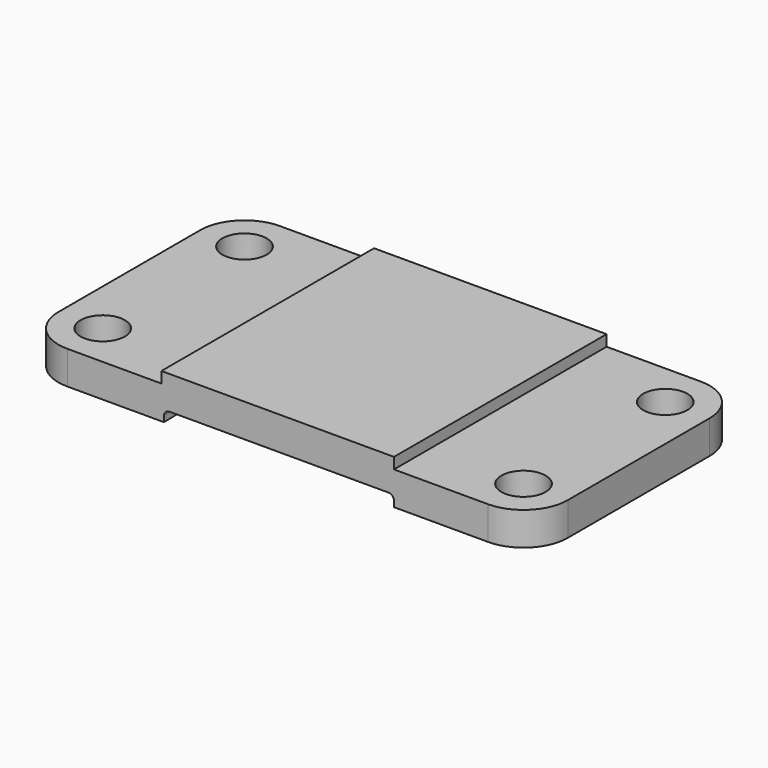
from build123d import *

# Parameters (mm, degrees)
F0_W     = 66.675
F0_H     = 76.2
F0_R     = 6.35
F1_DEPTH = 9.525
F2_W     = 66.675
F2_H     = 76.2
F3_DEPTH = 3.175
F5_DEPTH = 3.175
F6_R     = 1.5875


with BuildPart() as f1:
    # F0 (on Top) → F1 (new body)
    with BuildSketch(Plane.XY):
        Rectangle(F0_W, F0_H)
        with BuildLine():
            Line((60.325, 38.1), (33.3375, 38.1))
            Line((33.3375, 38.1), (33.3375, -38.1))
            Line((33.3375, -38.1), (60.325, -38.1))
            ThreePointArc((60.325, -38.1), (69.305256, -34.380256), (73.025, -25.4))
            Line((73.025, -25.4), (73.025, 25.4))
            ThreePointArc((73.025, 25.4), (69.305256, 34.380256), (60.325, 38.1))
        make_face()
        with Locations((60.325, -25.4)):
            Circle(F0_R, mode=Mode.SUBTRACT)
        with Locations((60.325, 25.4)):
            Circle(F0_R, mode=Mode.SUBTRACT)
        with BuildLine():
            Line((-33.3375, 38.1), (-60.325, 38.1))
            ThreePointArc((-60.325, 38.1), (-69.305256, 34.380256), (-73.025, 25.4))
            Line((-73.025, 25.4), (-73.025, -25.4))
            ThreePointArc((-73.025, -25.4), (-69.305256, -34.380256), (-60.325, -38.1))
            Line((-60.325, -38.1), (-33.3375, -38.1))
            Line((-33.3375, -38.1), (-33.3375, 38.1))
        make_face()
        with Locations((-60.325, -25.4)):
            Circle(F0_R, mode=Mode.SUBTRACT)
        with Locations((-60.325, 25.4)):
            Circle(F0_R, mode=Mode.SUBTRACT)
    extrude(amount=F1_DEPTH)

    # F2 (on face) → F3 (join)
    with BuildSketch(Plane.XY.offset(9.525)):
        Rectangle(F2_W, F2_H)
    extrude(amount=F3_DEPTH)

    # F4 (on face) → F5 (cut)
    with BuildSketch(Plane(origin=(0, 0, 0), x_dir=(1, 0, 0), z_dir=(0, 0, -1))):
        Polygon((33.3375, -38.1), (33.3375, 38.1), (-32.625852, 38.1), (-34.035566, -38.1), align=None)
    extrude(amount=-F5_DEPTH, mode=Mode.SUBTRACT)

    # F6
    f6_edges = [f1.edges().sort_by_distance(p)[0] for p in [
        (33.3375, 0, 3.175),
        (-33.330709, 0, 3.175),
    ]]
    fillet(f6_edges, radius=F6_R)


solid = f1.part
